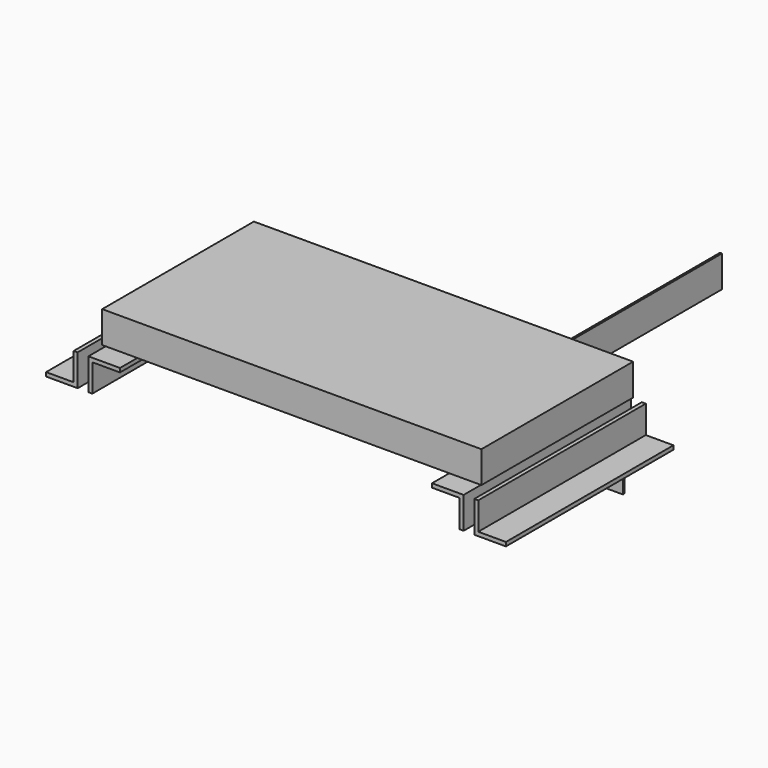
from build123d import *

# Parameters (mm, degrees)
F0_W      = 419.1
F0_H      = 41.91
F1_DEPTH  = 50.8
F0_W_2    = 609.6
F0_H_2    = 50.8
F2_DEPTH  = 304.8
F4_DEPTH  = 336.55
F5_DEPTH  = 336.55
F6_W      = 43.1060045958
F6_H      = 15.5551526695
F7_DEPTH  = 12.7
F8_T      = -2.54
F9_W      = 41.7341813445
F9_H      = 28.1890779734
F10_DEPTH = 19.05
F12_DEPTH = 25.4
F13_W     = 304.8
F13_H     = 50.8
F14_DEPTH = 3.175
F15_W     = 628.65
F15_H     = 25.4
F16_DEPTH = 3.175


with BuildPart() as f1:
    # F0 (on Front) → F1 (new body)
    with BuildSketch(Plane.XZ):
        with Locations((0, 32.036005367)):
            Rectangle(F0_W, F0_H)
    extrude(amount=F1_DEPTH)

    # F6 (on face) → F7 (join)
    with BuildSketch(Plane.XZ.offset(50.8)):
        with Locations((-126.2048408389, 37.2155820951)):
            Rectangle(F6_W, F6_H)
    extrude(amount=F7_DEPTH)

    # F8
    f8_openings = [f1.faces().sort_by_distance(p)[0] for p in [
        (-126.204841, -63.5, 37.215582),
    ]]
    offset(amount=F8_T, openings=f8_openings, kind=Kind.INTERSECTION)

    # F11 (on face) → F12 (cut)
    with BuildSketch(Plane.XZ.offset(142.5557434559)):
        Polygon((-104.7201529145, 59.341005367), (-125.5872435868, 40.291005367), (-104.7201529145, 40.291005367), align=None)
        Polygon((-125.5872435868, 40.291005367), (-146.454334259, 59.341005367), (-146.454334259, 40.291005367), align=None)
        Polygon((-104.7201529145, 59.341005367), (-146.454334259, 59.341005367), (-125.5872435868, 40.291005367), align=None)
    extrude(amount=F12_DEPTH, mode=Mode.SUBTRACT)


with BuildPart() as f2:
    # F0 (on Front) → F2 (new body)
    with BuildSketch(Plane.XZ):
        with Locations((0, 84.741005367)):
            Rectangle(F0_W_2, F0_H_2)
    extrude(amount=F2_DEPTH)


with BuildPart() as f4:
    # F3 (on Front) → F4 (new body)
    with BuildSketch(Plane.XZ):
        Polygon((301.590424836, 57.3228445721), (250.790424836, 57.3228445721), (250.790424836, 50.9728445721), (295.240424836, 50.9728445721), (295.240424836, 6.5228445721), (301.590424836, 6.5228445721), align=None)
    extrude(amount=F4_DEPTH)


with BuildPart() as f4b:
    # F3 (on Front) → F4, piece 2 (new body)
    with BuildSketch(Plane.XZ):
        Polygon((325.1507537066, 57.3228445721), (318.8007537066, 57.3228445721), (318.8007537066, 6.5228445721), (369.6007537066, 6.5228445721), (369.6007537066, 12.8728445721), (325.1507537066, 12.8728445721), align=None)
    extrude(amount=F4_DEPTH)


with BuildPart() as f5:
    # F3 (on Front) → F5 (new body)
    with BuildSketch(Plane.XZ):
        Polygon((301.590424836, 57.3228445721), (250.790424836, 57.3228445721), (250.790424836, 50.9728445721), (295.240424836, 50.9728445721), (295.240424836, 6.5228445721), (301.590424836, 6.5228445721), align=None)
    extrude(amount=F5_DEPTH)


with BuildPart() as f5b:
    # F3 (on Front) → F5, piece 2 (new body)
    with BuildSketch(Plane.XZ):
        Polygon((325.1507537066, 57.3228445721), (318.8007537066, 57.3228445721), (318.8007537066, 6.5228445721), (369.6007537066, 6.5228445721), (369.6007537066, 12.8728445721), (325.1507537066, 12.8728445721), align=None)
    extrude(amount=F5_DEPTH)


with BuildPart() as f5c:
    # F3 (on Front) → F5, piece 3 (new body)
    with BuildSketch(Plane.XZ):
        Polygon((-318.8007537066, 57.3228445721), (-325.1507537066, 57.3228445721), (-325.1507537066, 12.8728445721), (-369.6007537066, 12.8728445721), (-369.6007537066, 6.5228445721), (-318.8007537066, 6.5228445721), align=None)
    extrude(amount=F5_DEPTH)


with BuildPart() as f5d:
    # F3 (on Front) → F5, piece 4 (new body)
    with BuildSketch(Plane.XZ):
        Polygon((-295.240424836, 50.9728445721), (-250.790424836, 50.9728445721), (-250.790424836, 57.3228445721), (-301.590424836, 57.3228445721), (-301.590424836, 6.5228445721), (-295.240424836, 6.5228445721), align=None)
    extrude(amount=F5_DEPTH)


with BuildPart() as f10:
    # F9 (on face) → F10 (new body)
    with BuildSketch(Plane(origin=(0, 0, 59.341005367), x_dir=(1, 0, 0), z_dir=(0, 0, -1))):
        with Locations((-125.5872435868, 128.4612044692)):
            Rectangle(F9_W, F9_H)
    extrude(amount=F10_DEPTH)


with BuildPart() as f14:
    # F13 (on Right) → F14 (new body)
    with BuildSketch(Plane.YZ):
        with Locations((403.0925355504, -86.0749365926)):
            Rectangle(F13_W, F13_H)
    extrude(amount=F14_DEPTH)


with BuildPart() as f16:
    # F15 (on Front) → F16 (new body)
    with BuildSketch(Plane.XZ):
        with Locations((-23.3459185123, -68.3581817546)):
            Rectangle(F15_W, F15_H)
    extrude(amount=F16_DEPTH)


solid = Compound([f1.part, f2.part, f4.part, f4b.part, f5.part, f5b.part, f5c.part, f5d.part, f10.part, f14.part, f16.part])
